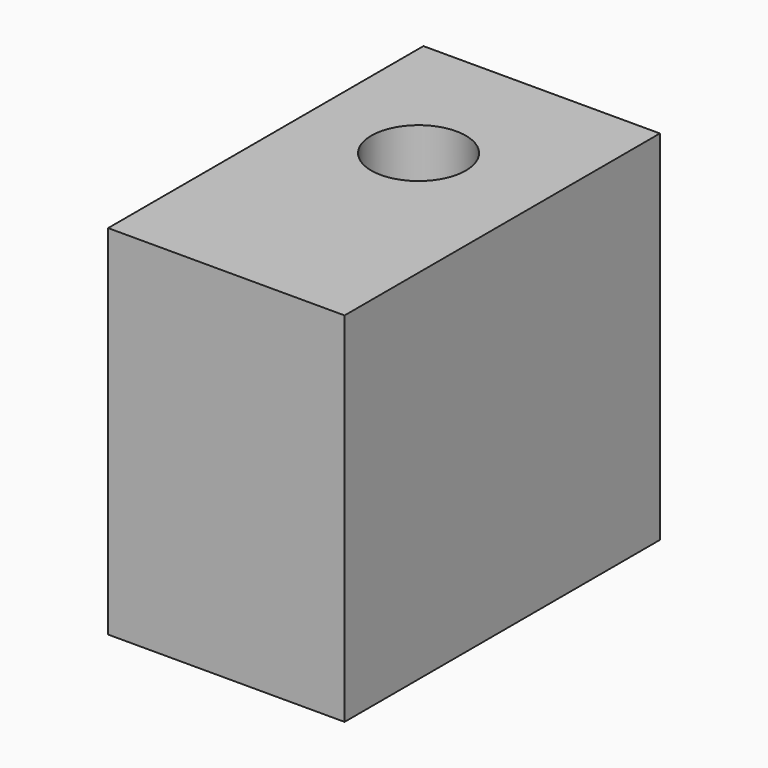
from build123d import *

# Parameters (mm, degrees)
F0_W      = 30
F0_H      = 50
F1_DEPTH  = 25.4
F1_FACE_W = 30
F1_FACE_H = 50
F2_DEPTH  = 20
F4_D      = 12
F6_DEPTH  = 7


with BuildPart() as f1:
    # F0 (on Top) → F1 (new body)
    with BuildSketch(Plane.XY):
        with Locations((-22.883214, -2.406316)):
            Rectangle(F0_W, F0_H)
    extrude(amount=F1_DEPTH)

    # F1_face (on face) → F2 (join)
    with BuildSketch(Plane(origin=(-22.883214, -2.406316, 25.4), x_dir=(1, 0, 0), z_dir=(0, 0, 1))):
        Rectangle(F1_FACE_W, F1_FACE_H)
    extrude(amount=F2_DEPTH)

    # F4 (through all)
    with Locations(Plane.XY.offset(45.4)):
        with Locations((-23.912763, 4.361447)):
            Hole(F4_D / 2)

    # F5 (on Top) → F6 (cut)
    with BuildSketch(Plane.XY):
        Polygon((-17.755329, -9.173958), (-30.53013, -11.881185), (-30.53013, -19.400921), (-22.709606, -19.400921), (-17.596183, -19.400921), (-22.709606, -15.189869), align=None)
    extrude(amount=F6_DEPTH, mode=Mode.SUBTRACT)


solid = f1.part
